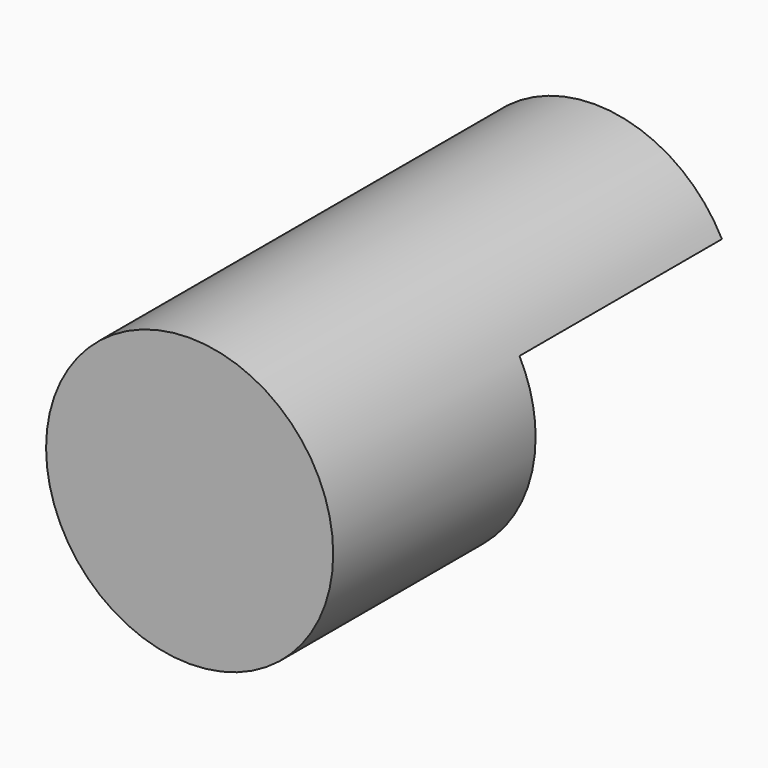
from build123d import *

# Parameters (mm, degrees)
F0_R     = 28.8209521985
F1_DEPTH = 50.8
F3_D     = 57.15
F3_DEPTH = 50.801


with BuildPart() as f1:
    # F0 (on Front) → F1 (new body, symmetric)
    with BuildSketch(Plane.XZ):
        Circle(F0_R)
    extrude(amount=F1_DEPTH, both=True)

    # F3 (through all, one way)
    with BuildSketch(Plane.XZ):
        with Locations((7.8441174701, -9.1277007014)):
            Circle(F3_D / 2)
    extrude(amount=-F3_DEPTH, mode=Mode.SUBTRACT)


solid = f1.part
